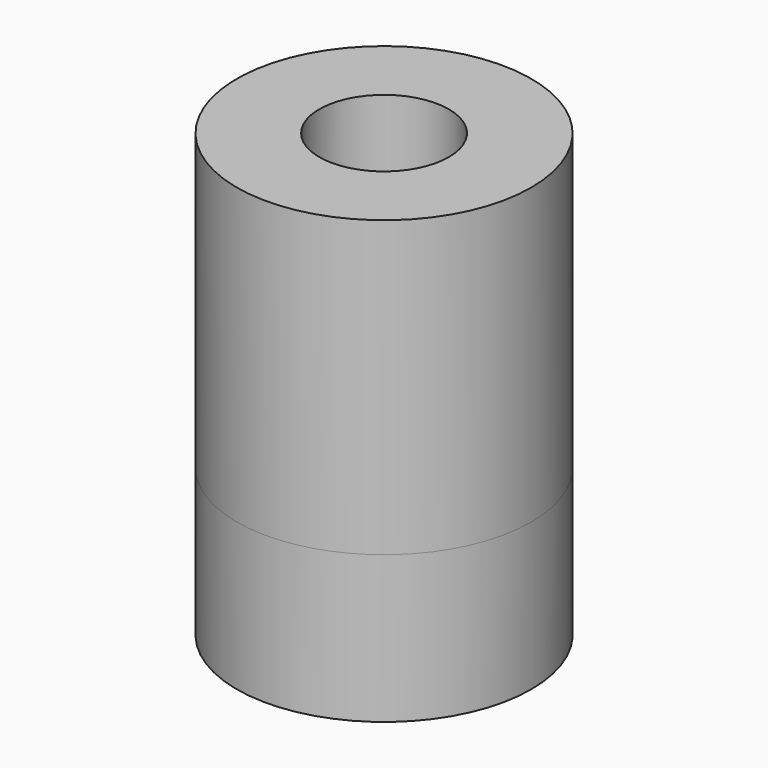
from build123d import *

# Parameters (mm, degrees)
F0_R        = 3.175
F0_R_2      = 1.397
F1_DEPTH    = 9.525
F1_FACE_R   = 3.175
F1_FACE_R_2 = 1.397
F2_DEPTH    = 3.175


with BuildPart() as f1:
    # F0 (on Top) → F1 (new body)
    with BuildSketch(Plane.XY):
        Circle(F0_R)
        Circle(F0_R_2, mode=Mode.SUBTRACT)
    extrude(amount=F1_DEPTH)


with BuildPart() as f2:
    # F1_face (on face) → F2 (new body)
    with BuildSketch(Plane(origin=(0, 0, 0), x_dir=(1, 0, 0), z_dir=(0, 0, -1))):
        Circle(F1_FACE_R)
        Circle(F1_FACE_R_2, mode=Mode.SUBTRACT)
    extrude(amount=-F2_DEPTH)


solid = Compound([f1.part, f2.part])
